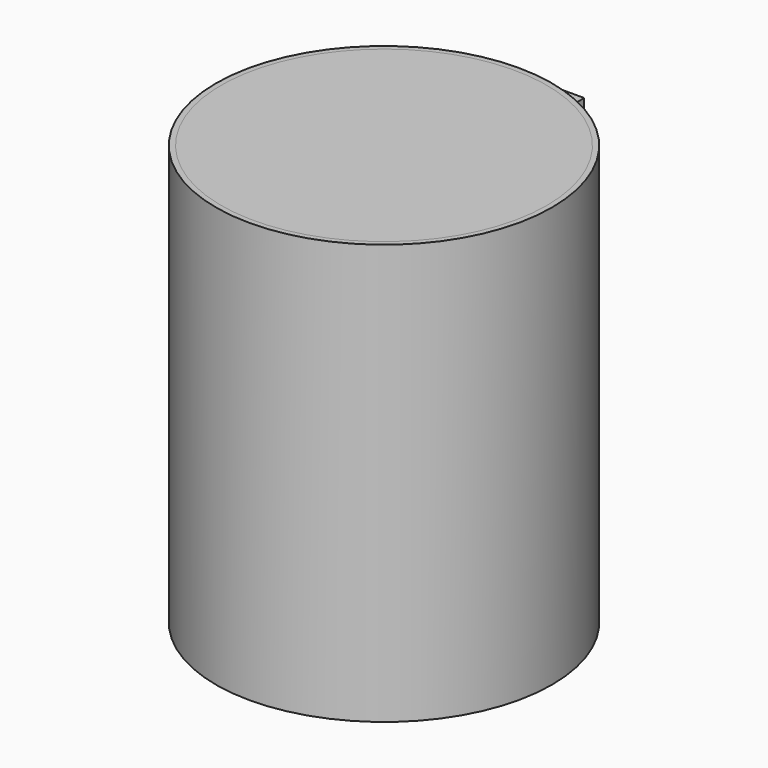
from build123d import *

# Parameters (mm, degrees)
F0_R     = 50.8
F0_R_2   = 49.2125
F1_DEPTH = 127
F2_DEPTH = 4.975986
F3_W     = 3.780454
F3_H     = 70.76213
F4_DEPTH = 6.35


with BuildPart() as f1:
    # F0 (on Top) → F1 (new body)
    with BuildSketch(Plane.XY):
        Circle(F0_R)
        Circle(F0_R_2, mode=Mode.SUBTRACT)
    extrude(amount=-F1_DEPTH)


with BuildPart() as f2:
    # F0 (on Top) → F2 (new body)
    with BuildSketch(Plane.XY):
        Circle(F0_R_2)
    extrude(amount=-F2_DEPTH)


with BuildPart() as f4:
    # F3 (on Right) → F4 (new body, symmetric)
    with BuildSketch(Plane.YZ):
        Polygon((63.937627, -18.21967), (67.718081, -18.21967), (67.718081, -12.85633), (50.973743, -12.85633), (50.973743, -18.21967), align=None)
        with Locations((65.827854, -53.600735)):
            Rectangle(F3_W, F3_H)
        Polygon((67.718081, -94.397597), (67.718081, -88.9818), (63.937627, -88.9818), (51.021233, -88.9818), (51.021233, -94.397597), align=None)
    extrude(amount=F4_DEPTH, both=True)


solid = Compound([f1.part, f2.part, f4.part])
